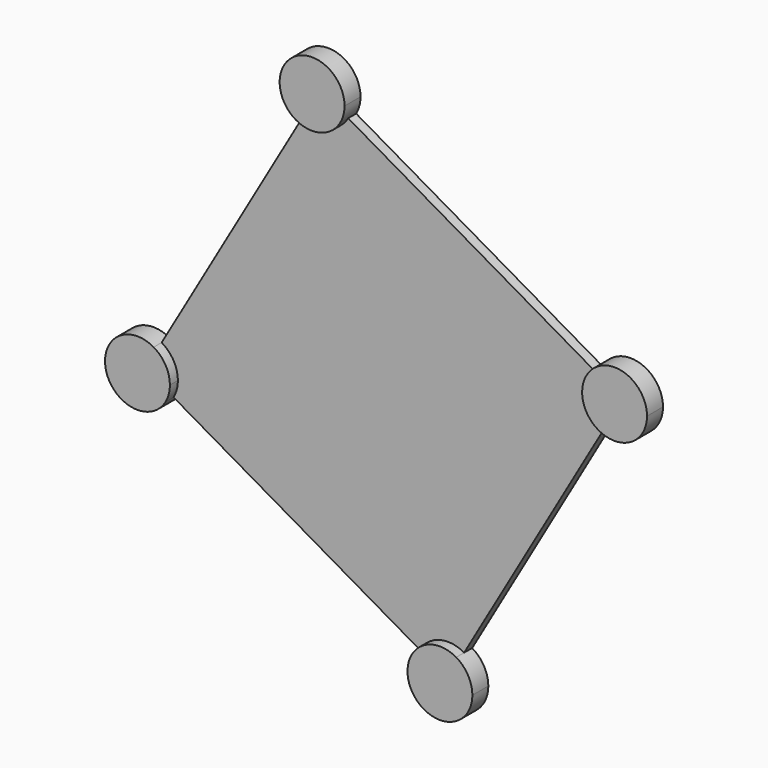
from build123d import *

# Parameters (mm, degrees)
F1_DEPTH = 2
F2_DEPTH = 4


with BuildPart() as f1:
    # F0 (on Front) → F1 (new body)
    with BuildSketch(Plane.XZ):
        with BuildLine():
            ThreePointArc((7.1817240079, -44.5608891325), (11.1285653393, -41.5323712616), (16.0608891325, -42.1817240079))
            Line((16.0608891325, -42.1817240079), (44.5608891325, 7.1817240079))
            ThreePointArc((44.5608891325, 7.1817240079), (41.5323712616, 11.1285653393), (42.1817240079, 16.0608891325))
            Line((42.1817240079, 16.0608891325), (-7.1817240079, 44.5608891325))
            ThreePointArc((-7.1817240079, 44.5608891325), (-11.1285653393, 41.5323712616), (-16.0608891325, 42.1817240079))
            Line((-16.0608891325, 42.1817240079), (-44.5608891325, -7.1817240079))
            ThreePointArc((-44.5608891325, -7.1817240079), (-42.1817240079, -9.5608891325), (-41.3108891325, -12.8108891325))
            ThreePointArc((-41.3108891325, -12.8108891325), (-41.5323712616, -14.4932129256), (-42.1817240079, -16.0608891325))
            Line((-42.1817240079, -16.0608891325), (7.1817240079, -44.5608891325))
        make_face()
    extrude(amount=F1_DEPTH)

    # F0 (on Front) → F2 (join)
    with BuildSketch(Plane.XZ):
        with BuildLine():
            Line((-47.8108891325, -12.8108891325), (-42.1817240079, -16.0608891325))
            ThreePointArc((-42.1817240079, -16.0608891325), (-41.5323712616, -14.4932129256), (-41.3108891325, -12.8108891325))
            ThreePointArc((-41.3108891325, -12.8108891325), (-42.1817240079, -9.5608891325), (-44.5608891325, -7.1817240079))
            Line((-44.5608891325, -7.1817240079), (-47.8108891325, -12.8108891325))
        make_face()
        with BuildLine():
            ThreePointArc((-44.5608891325, -7.1817240079), (-54.0894070033, -14.4932129256), (-42.1817240079, -16.0608891325))
            Line((-42.1817240079, -16.0608891325), (-47.8108891325, -12.8108891325))
            Line((-47.8108891325, -12.8108891325), (-44.5608891325, -7.1817240079))
        make_face()
        with BuildLine():
            Line((16.0608891325, -42.1817240079), (12.8108891325, -47.8108891325))
            Line((12.8108891325, -47.8108891325), (7.1817240079, -44.5608891325))
            ThreePointArc((7.1817240079, -44.5608891325), (11.1285653393, -54.0894070033), (19.3108891325, -47.8108891325))
            ThreePointArc((19.3108891325, -47.8108891325), (18.4400542571, -44.5608891325), (16.0608891325, -42.1817240079))
        make_face()
        with BuildLine():
            Line((7.1817240079, -44.5608891325), (12.8108891325, -47.8108891325))
            Line((12.8108891325, -47.8108891325), (16.0608891325, -42.1817240079))
            ThreePointArc((16.0608891325, -42.1817240079), (11.1285653393, -41.5323712616), (7.1817240079, -44.5608891325))
        make_face()
        with BuildLine():
            ThreePointArc((42.1817240079, 16.0608891325), (41.5323712616, 11.1285653393), (44.5608891325, 7.1817240079))
            Line((44.5608891325, 7.1817240079), (47.8108891325, 12.8108891325))
            Line((47.8108891325, 12.8108891325), (42.1817240079, 16.0608891325))
        make_face()
        with BuildLine():
            Line((47.8108891325, 12.8108891325), (44.5608891325, 7.1817240079))
            ThreePointArc((44.5608891325, 7.1817240079), (51.0608891325, 7.1817240079), (54.3108891325, 12.8108891325))
            ThreePointArc((54.3108891325, 12.8108891325), (49.4932129256, 19.0894070033), (42.1817240079, 16.0608891325))
            Line((42.1817240079, 16.0608891325), (47.8108891325, 12.8108891325))
        make_face()
        with BuildLine():
            ThreePointArc((-16.0608891325, 42.1817240079), (-11.1285653393, 41.5323712616), (-7.1817240079, 44.5608891325))
            Line((-7.1817240079, 44.5608891325), (-12.8108891325, 47.8108891325))
            Line((-12.8108891325, 47.8108891325), (-16.0608891325, 42.1817240079))
        make_face()
        with BuildLine():
            Line((-12.8108891325, 47.8108891325), (-7.1817240079, 44.5608891325))
            ThreePointArc((-7.1817240079, 44.5608891325), (-6.5323712616, 46.1285653393), (-6.3108891325, 47.8108891325))
            ThreePointArc((-6.3108891325, 47.8108891325), (-16.0608891325, 53.4400542571), (-16.0608891325, 42.1817240079))
            Line((-16.0608891325, 42.1817240079), (-12.8108891325, 47.8108891325))
        make_face()
    extrude(amount=F2_DEPTH)


solid = f1.part
